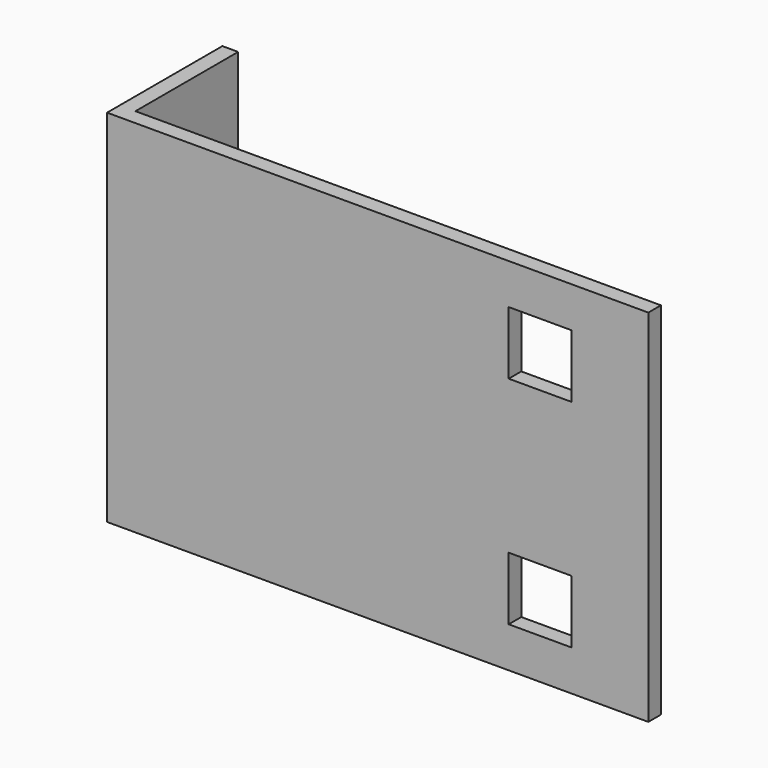
from build123d import *

# Parameters (mm, degrees)
F0_W     = 95.377
F0_H     = 25.4
F1_DEPTH = 31.75
F2_T     = -2.778125
F3_W     = 11.1125
F3_H     = 11.1125
F4_DEPTH = 25.401
F5_R     = 2.579688
F6_DEPTH = 95.378


with BuildPart() as f1:
    # F0 (on Top) → F1 (new body, symmetric)
    with BuildSketch(Plane.XY):
        with Locations((47.6885, 12.7)):
            Rectangle(F0_W, F0_H)
    extrude(amount=F1_DEPTH, both=True)

    # F2
    f2_openings = [f1.faces().sort_by_distance(p)[0] for p in [
        (95.377, 12.7, 0),
        (47.6885, 12.7, 31.75),
        (47.6885, 12.7, -31.75),
        (47.6885, 25.4, 0),
    ]]
    offset(amount=F2_T, openings=f2_openings)

    # F3 (on face) → F4 (cut, through all)
    with BuildSketch(Plane.XZ):
        with Locations((76.327, -19.05)):
            Rectangle(F3_W, F3_H)
        with Locations((76.327, 19.05)):
            Rectangle(F3_W, F3_H)
    extrude(amount=-F4_DEPTH, mode=Mode.SUBTRACT)

    # F5 (on face) → F6 (cut, through all)
    with BuildSketch(Plane(origin=(0, 0, 0), x_dir=(0, -1, 0), z_dir=(-1, 0, 0))):
        with Locations((-12.7, 19.05)):
            Circle(F5_R)
        with Locations((-12.7, -19.05)):
            Circle(F5_R)
    extrude(amount=-F6_DEPTH, mode=Mode.SUBTRACT)


solid = f1.part
